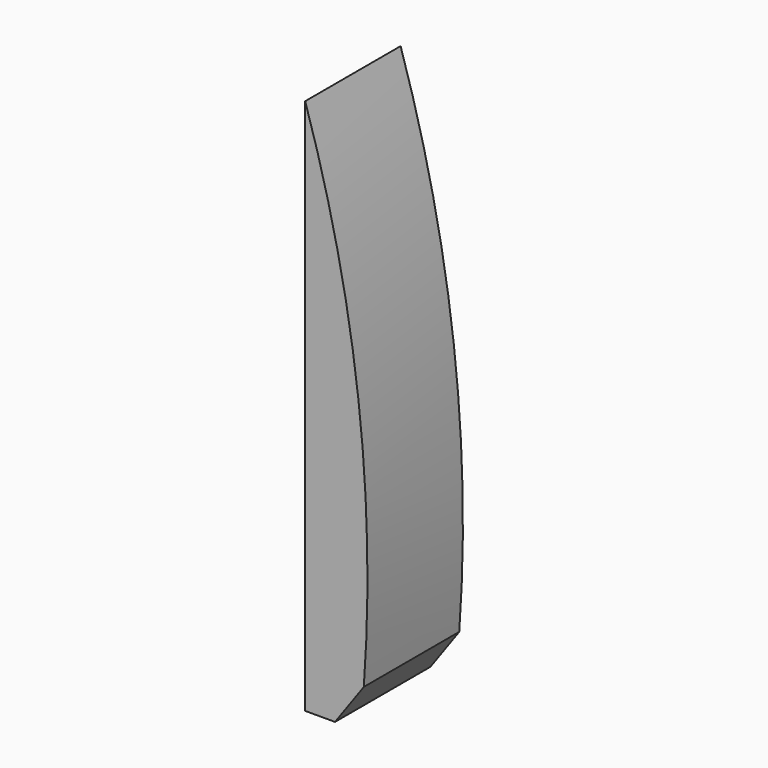
from build123d import *

# Parameters (mm, degrees)
F0_W     = 30.48
F0_H     = 137.16
F1_DEPTH = 25.4
F3_DEPTH = 50.8


with BuildPart() as f1:
    # F0 (on Right) → F1 (new body)
    with BuildSketch(Plane.YZ):
        with Locations((-36.818615, -3.932133)):
            Rectangle(F0_W, F0_H)
    extrude(amount=F1_DEPTH)

    # F2 (on face) → F3 (cut)
    with BuildSketch(Plane(origin=(0, -21.578615, 0), x_dir=(-1, 0, 0), z_dir=(0, 1, 0))):
        Polygon((-25.4, -72.512133), (-7.62, -72.512133), (-14.980916, -62.245408), (-25.4, -47.713265), align=None)
        with BuildLine():
            Line((-25.4, -47.713265), (-14.980916, -62.245408))
            ThreePointArc((-14.980916, -62.245408), (-13.604809, 1.923085), (0, 64.647867))
            Line((0, 64.647867), (-25.4, 64.647867))
            Line((-25.4, 64.647867), (-25.4, -47.713265))
        make_face()
    extrude(amount=-F3_DEPTH, mode=Mode.SUBTRACT)


solid = f1.part
